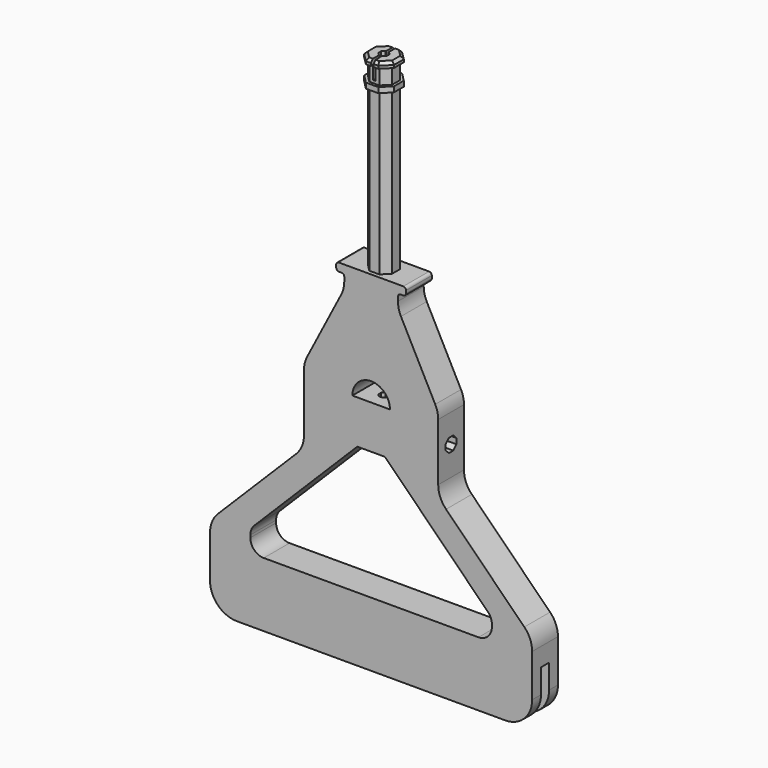
from build123d import *

# Parameters (mm, degrees)
PAD_DEPTH            = 25
PAD_DEPTH_BACK       = 25
PAD001_START         = 5
PAD001_DEPTH         = 115
PAD002_DEPTH         = 6
PAD002_DEPTH_BACK    = 6
POCKET_DEPTH         = 10.001
POCKET_DEPTH_BACK    = 10.001
POCKET001_DEPTH      = 120.001
PAD003_DEPTH         = 2
LINEARPATTERN_COUNT  = 2
LINEARPATTERN_PITCH  = 8
SKETCH006_W          = 15
SKETCH006_H          = 1
POCKET002_DEPTH      = 7
PAD004_DEPTH         = 6
PAD004_DEPTH_BACK    = 6
SKETCH008_W          = 3.8
SKETCH008_H          = 20
POCKET003_DEPTH      = 60.001
POCKET003_DEPTH_BACK = 60.001
POCKET004_DEPTH      = 10.001
POCKET004_DEPTH_BACK = 10.001
FILLET_R             = 10
FILLET001_R          = 10
FILLET002_R          = 5
FILLET003_R          = 10
FILLET004_R          = 1
FILLET005_R          = 1
SKETCH010_W          = 10
SKETCH010_H          = 30
POCKET005_DEPTH      = 60.001
POCKET005_DEPTH_BACK = 60.001
SKETCH011_W          = 10
SKETCH011_H          = 30
POCKET006_DEPTH      = 60.001
POCKET006_DEPTH_BACK = 60.001
FILLET006_R          = 10
CHAMFER_SIZE         = 1
CHAMFER001_SIZE      = 1


with BuildPart() as part:
    # Sketch → Pad (new body, two sides)
    with BuildSketch(Plane.YZ) as pad_sk:
        Polygon((10, -4.142136), (10, 4.142136), (4.142136, 10), (-4.142136, 10), (-10, 4.142136), (-10, -4.142136), (-4.142136, -10), (4.142136, -10), align=None)
        Polygon((2.5, 1.035534), (1.035534, 2.5), (-1.035534, 2.5), (-2.5, 1.035534), (-2.5, -1.035534), (-1.035534, -2.5), (1.035534, -2.5), (2.5, -1.035534), align=None, mode=Mode.SUBTRACT)
    extrude(amount=PAD_DEPTH)
    extrude(pad_sk.sketch, amount=-PAD_DEPTH_BACK)

    # Sketch001 → Pad001 (join)
    with BuildSketch(Plane.XY.offset(PAD001_START)):
        Polygon((4.5, -1.863961), (4.5, 1.863961), (1.863961, 4.5), (-1.863961, 4.5), (-4.5, 1.863961), (-4.5, -1.863961), (-1.863961, -4.5), (1.863961, -4.5), align=None)
        Polygon((1.575, -0.652386), (1.575, 0.652386), (0.652386, 1.575), (-0.652386, 1.575), (-1.575, 0.652386), (-1.575, -0.652386), (-0.652386, -1.575), (0.652386, -1.575), align=None, mode=Mode.SUBTRACT)
    extrude(amount=PAD001_DEPTH)

    # Sketch002 → Pad002 (join, two sides)
    with BuildSketch(Plane.XZ) as pad002_sk:
        Polygon((-25, 8), (25, 8), (25, 13), (10, 42), (10, 47), (13, 47), (13, 50), (-13, 50), (-13, 47), (-10, 47), (-10, 42), (-25, 13), align=None)
    extrude(amount=PAD002_DEPTH)
    extrude(pad002_sk.sketch, amount=-PAD002_DEPTH_BACK)

    # Sketch003 → Pocket (cut, two sides)
    with BuildSketch(Plane.XZ) as pocket_sk:
        with BuildLine():
            ThreePointArc((7, 8), (0, 15), (-7, 8))
            Line((-7, 8), (7, 8))
        make_face()
    extrude(amount=-POCKET_DEPTH, mode=Mode.SUBTRACT)
    extrude(pocket_sk.sketch, amount=POCKET_DEPTH_BACK, mode=Mode.SUBTRACT)

    # Sketch004 → Pocket001 (cut, through all)
    with BuildSketch(Plane.XY):
        Polygon((1.575, -0.652386), (1.575, 0.652386), (0.652386, 1.575), (-0.652386, 1.575), (-1.575, 0.652386), (-1.575, -0.652386), (-0.652386, -1.575), (0.652386, -1.575), align=None)
    extrude(amount=POCKET001_DEPTH, mode=Mode.SUBTRACT)

    # Sketch005 (on Face68 of Pocket001) → Pad003 (join)
    with BuildSketch(Plane(origin=(0, 0, 120), x_dir=(0, -1, 0), z_dir=(0, 0, 1))):
        Polygon((5.543277, -2.296101), (5.543277, 2.296101), (2.296101, 5.543277), (-2.296101, 5.543277), (-5.543277, 2.296101), (-5.543277, -2.296101), (-2.296101, -5.543277), (2.296101, -5.543277), align=None)
        Polygon((1.339392, -3.233578), (3.233578, -1.339392), (3.233578, 1.339392), (1.339392, 3.233578), (-1.339392, 3.233578), (-3.233578, 1.339392), (-3.233578, -1.339392), (-1.339392, -3.233578), align=None, mode=Mode.SUBTRACT)
    pad003 = extrude(amount=-PAD003_DEPTH)

    # LinearPattern: Pad003 ×2
    with Locations(*[(0, 0, -i * LINEARPATTERN_PITCH) for i in range(1, LINEARPATTERN_COUNT)]):
        add(pad003)

    # Sketch006 (on Face80 of LinearPattern) → Pocket002 (cut)
    with BuildSketch(Plane(origin=(0, 0, 120), x_dir=(0, -1, 0), z_dir=(0, 0, 1))):
        Rectangle(SKETCH006_W, SKETCH006_H)
    extrude(amount=-POCKET002_DEPTH, mode=Mode.SUBTRACT)

    # Sketch007 → Pad004 (join, two sides)
    with BuildSketch(Plane.XZ) as pad004_sk:
        Polygon((-25, -5), (25, -5), (25, -15), (60, -50), (60, -80), (-60, -80), (-60, -50), (-25, -15), align=None)
    extrude(amount=PAD004_DEPTH)
    extrude(pad004_sk.sketch, amount=-PAD004_DEPTH_BACK)

    # Sketch008 → Pocket003 (cut, two sides)
    with BuildSketch(Plane.YZ) as pocket003_sk:
        with Locations((0, -71)):
            Rectangle(SKETCH008_W, SKETCH008_H)
    extrude(amount=-POCKET003_DEPTH, mode=Mode.SUBTRACT)
    extrude(pocket003_sk.sketch, amount=POCKET003_DEPTH_BACK, mode=Mode.SUBTRACT)

    # Sketch009 → Pocket004 (cut, two sides)
    with BuildSketch(Plane.XZ) as pocket004_sk:
        Polygon((-5.142136, -8.142136), (5.142136, -8.142136), (45, -48), (45, -56), (-45, -56), (-45, -48), align=None)
    extrude(amount=-POCKET004_DEPTH, mode=Mode.SUBTRACT)
    extrude(pocket004_sk.sketch, amount=POCKET004_DEPTH_BACK, mode=Mode.SUBTRACT)

    # Fillet
    fillet_edges = [part.edges().sort_by_distance(p)[0] for p in [
        (25, 0, -15),
        (-25, 0, -15),
    ]]
    fillet(fillet_edges, radius=FILLET_R)

    # Fillet001
    fillet001_edges = [part.edges().sort_by_distance(p)[0] for p in [
        (-60, 0, -50),
        (60, 0, -50),
    ]]
    fillet(fillet001_edges, radius=FILLET001_R)

    # Fillet002
    fillet002_edges = [part.edges().sort_by_distance(p)[0] for p in [
        (-45, 0, -56),
        (-45, 0, -48),
        (45, 0, -48),
        (45, 0, -56),
    ]]
    fillet(fillet002_edges, radius=FILLET002_R)

    # Fillet003
    fillet003_edges = [part.edges().sort_by_distance(p)[0] for p in [
        (-25, 0, 13),
        (-10, 0, 42),
        (10, 0, 42),
        (25, 0, 13),
    ]]
    fillet(fillet003_edges, radius=FILLET003_R)

    # Fillet004
    fillet004_edges = [part.edges().sort_by_distance(p)[0] for p in [
        (10, 0, 47),
        (13, 0, 47),
        (13, 0, 50),
    ]]
    fillet(fillet004_edges, radius=FILLET004_R)

    # Fillet005
    fillet005_edges = [part.edges().sort_by_distance(p)[0] for p in [
        (-10, 0, 47),
        (-13, 0, 47),
        (-13, 0, 50),
    ]]
    fillet(fillet005_edges, radius=FILLET005_R)

    # Sketch010 → Pocket005 (cut, two sides)
    with BuildSketch(Plane.YZ) as pocket005_sk:
        with Locations((11, 0)):
            Rectangle(SKETCH010_W, SKETCH010_H)
    extrude(amount=-POCKET005_DEPTH, mode=Mode.SUBTRACT)
    extrude(pocket005_sk.sketch, amount=POCKET005_DEPTH_BACK, mode=Mode.SUBTRACT)

    # Sketch011 → Pocket006 (cut, two sides)
    with BuildSketch(Plane.YZ) as pocket006_sk:
        with Locations((-11, 0)):
            Rectangle(SKETCH011_W, SKETCH011_H)
    extrude(amount=-POCKET006_DEPTH, mode=Mode.SUBTRACT)
    extrude(pocket006_sk.sketch, amount=POCKET006_DEPTH_BACK, mode=Mode.SUBTRACT)

    # Fillet006
    fillet006_edges = [part.edges().sort_by_distance(p)[0] for p in [
        (60, -3.95, -80),
        (60, 3.95, -80),
        (-60, -3.95, -80),
        (-60, 3.95, -80),
    ]]
    fillet(fillet006_edges, radius=FILLET006_R)

    # Chamfer
    chamfer_edges = [part.edges().sort_by_distance(p)[0] for p in [
        (1.39805, 5.543277, 120),
        (3.919689, 3.919689, 120),
        (5.543277, 0, 120),
        (3.919689, -3.919689, 120),
        (1.39805, -5.543277, 120),
    ]]
    chamfer(chamfer_edges, length=CHAMFER_SIZE)

    # Chamfer001
    chamfer001_edges = [part.edges().sort_by_distance(p)[0] for p in [
        (-1.39805, 5.543277, 120),
        (-3.919689, 3.919689, 120),
        (-5.543277, 0, 120),
        (-3.919689, -3.919689, 120),
        (-1.39805, -5.543277, 120),
    ]]
    chamfer(chamfer001_edges, length=CHAMFER001_SIZE)


solid = part.part
